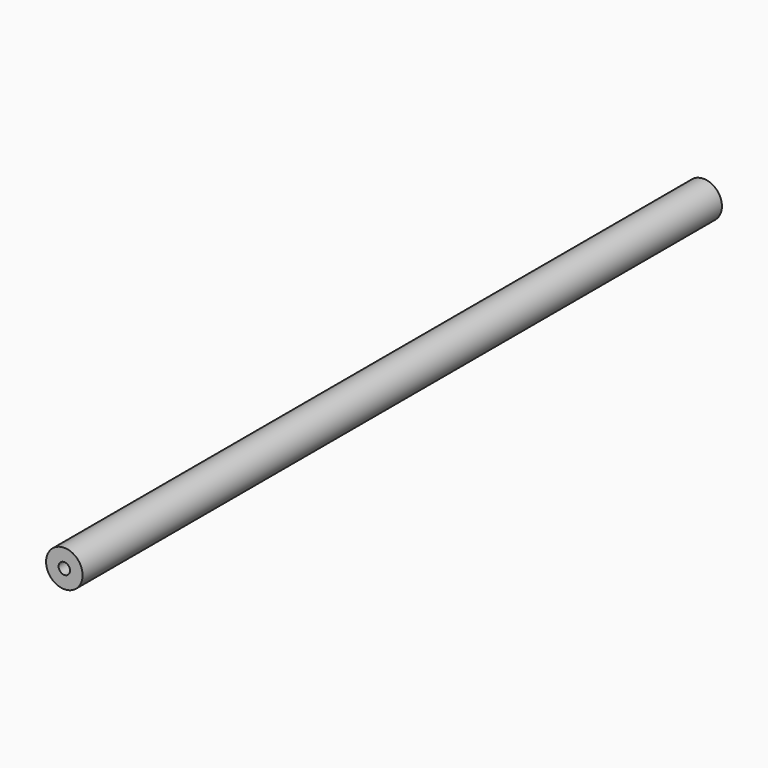
from build123d import *

# Parameters (mm, degrees)
F0_R     = 8
F1_DEPTH = 350
F4_D     = 5
F4_DEPTH = 16
F4_TIP   = 1.5021515476
F6_D     = 5
F6_DEPTH = 16
F6_TIP   = 1.5021515476


with BuildPart() as f1:
    # F0 (on Front) → F1 (new body)
    with BuildSketch(Plane.XZ):
        Circle(F0_R)
    extrude(amount=F1_DEPTH)

    # F4
    with Locations(Plane(origin=(0, 0, 0), x_dir=(-1, 0, 0), z_dir=(0, 1, 0))):
        with Locations((0, 0)):
            Hole(F4_D / 2, depth=F4_DEPTH)
            with Locations((0, 0, -(F4_DEPTH + F4_TIP / 2))):  # 118° drill point
                Cone(0, F4_D / 2, F4_TIP, mode=Mode.SUBTRACT)

    # F6
    with Locations(Plane.XZ.offset(350)):
        with Locations((0, 0)):
            Hole(F6_D / 2, depth=F6_DEPTH)
            with Locations((0, 0, -(F6_DEPTH + F6_TIP / 2))):  # 118° drill point
                Cone(0, F6_D / 2, F6_TIP, mode=Mode.SUBTRACT)


solid = f1.part
